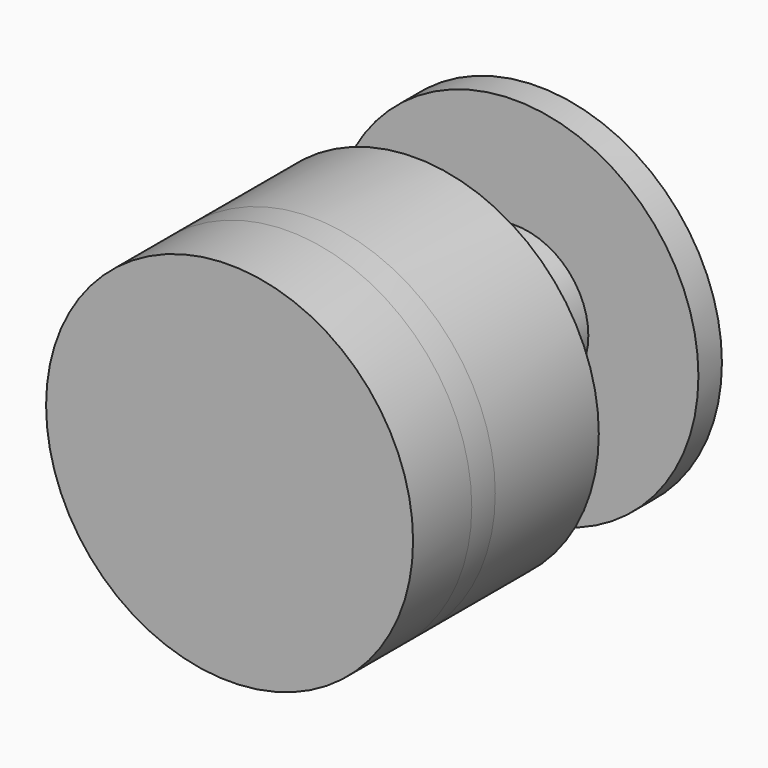
from build123d import *

# Parameters (mm, degrees)
F0_R      = 5
F1_DEPTH  = 17.3
F2_R      = 12.5
F3_DEPTH  = 2
F4_R      = 12.5
F4_R_2    = 8.5
F5_DEPTH  = 8.817
F6_R      = 12.5
F7_DEPTH  = 2
F8_R      = 2
F9_DEPTH  = 5
F10_R     = 2
F11_R     = 12.5
F12_DEPTH = 5


with BuildPart() as f1:
    # F0 (on Front) → F1 (new body)
    with BuildSketch(Plane.XZ):
        Circle(F0_R)
    extrude(amount=F1_DEPTH)

    # F2 (on face) → F3 (join)
    with BuildSketch(Plane.XZ.offset(17.3)):
        Circle(F2_R)
    extrude(amount=F3_DEPTH)

    # F4 (on face) → F5 (join)
    with BuildSketch(Plane(origin=(0, -17.3, 0), x_dir=(-1, 0, 0), z_dir=(0, 1, 0))):
        Circle(F4_R)
        Circle(F4_R_2, mode=Mode.SUBTRACT)
    extrude(amount=F5_DEPTH)

    # F6 (on face) → F7 (join)
    with BuildSketch(Plane(origin=(0, 0, 0), x_dir=(-1, 0, 0), z_dir=(0, 1, 0))):
        Circle(F6_R)
    extrude(amount=F7_DEPTH)

    # F8 (on face) → F9 (join)
    with BuildSketch(Plane(origin=(0, 2, 0), x_dir=(-1, 0, 0), z_dir=(0, 1, 0))):
        Circle(F8_R)
    extrude(amount=F9_DEPTH)

    # F10
    f10_edges = [f1.edges().sort_by_distance(p)[0] for p in [
        (2, 7, 0),
    ]]
    fillet(f10_edges, radius=F10_R)

    # F11 (on face) → F12 (join)
    with BuildSketch(Plane.XZ.offset(19.3)):
        Circle(F11_R)
    extrude(amount=F12_DEPTH)


solid = f1.part
